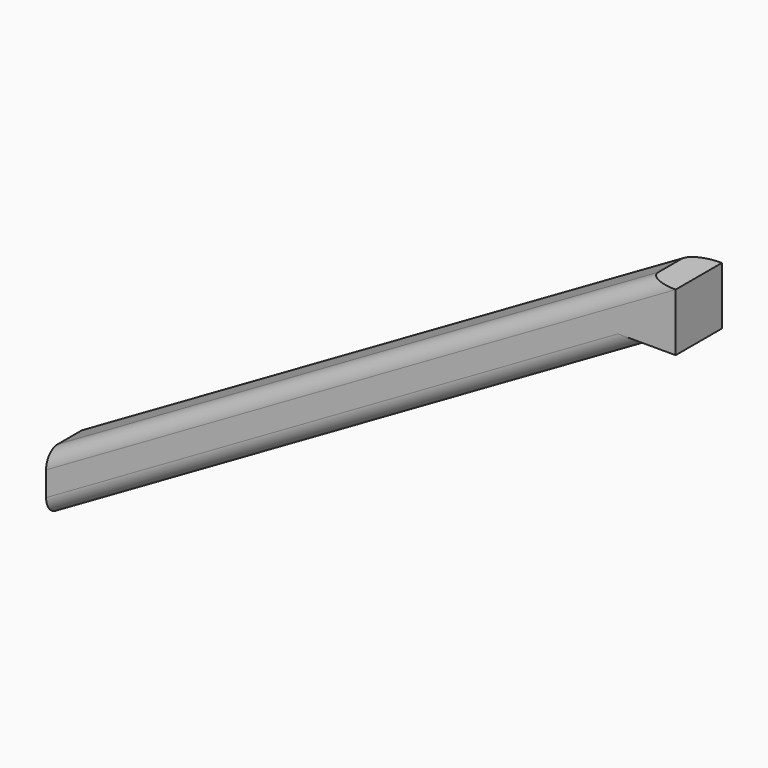
from build123d import *

# Parameters (mm, degrees)
F0_W     = 25.4
F0_H     = 50.8
F1_DEPTH = 50.8
F2_R     = 12.7


with BuildPart() as f1:
    # F0 (on Front) → F1 (new body)
    with BuildSketch(Plane.XZ):
        Polygon((527.929086, 304.8), (0, 0), (0, -50.8), (527.929086, 254), align=None)
        with Locations((540.629086, 279.4)):
            Rectangle(F0_W, F0_H)
    extrude(amount=F1_DEPTH)

    # F2
    f2_edges = [f1.edges().sort_by_distance(p)[0] for p in [
        (263.964543, -50.8, 152.4),
        (263.964543, -50.8, 101.6),
        (263.964543, 0, 152.4),
        (263.964543, 0, 101.6),
    ]]
    fillet(f2_edges, radius=F2_R)


solid = f1.part
